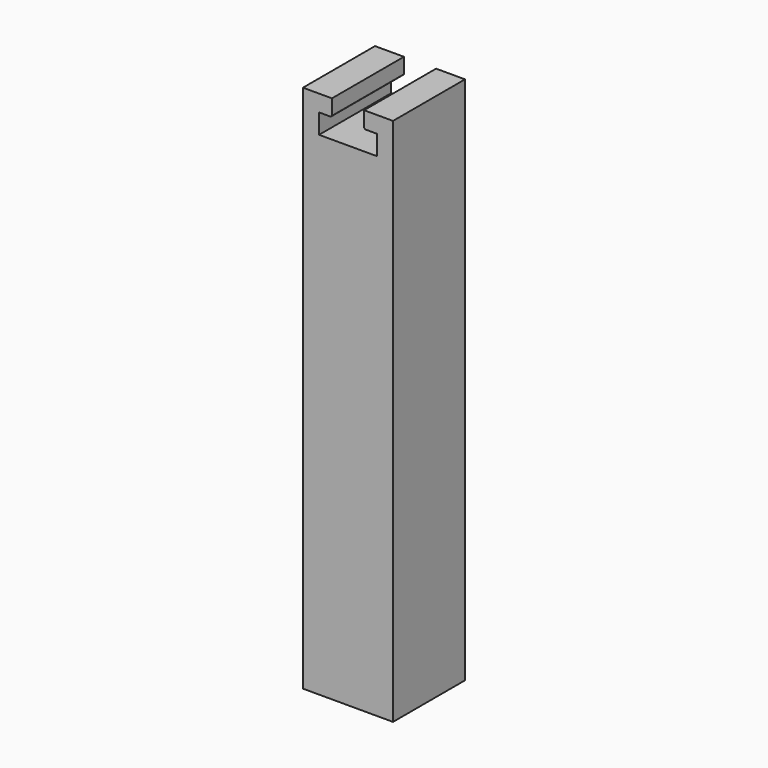
from build123d import *

# Parameters (mm, degrees)
F0_W     = 9.9568
F0_H     = 58.5216
F1_DEPTH = 9.9568
F3_DEPTH = 9.9578
F4_SIZE  = 0.127


with BuildPart() as f1:
    # F0 (on Front) → F1 (new body)
    with BuildSketch(Plane.XZ):
        with Locations((4.9784, -29.2608)):
            Rectangle(F0_W, F0_H)
    extrude(amount=-F1_DEPTH)

    # F2 (on face) → F3 (cut, through all)
    with BuildSketch(Plane.XZ):
        Polygon((6.7564, 1.562734), (3.2004, 1.562903), (3.2004, -1.8288), (1.778, -1.8288), (1.778, -4.0132), (8.1788, -4.0132), (8.1788, -1.8288), (6.7564, -1.8288), align=None)
    extrude(amount=-F3_DEPTH, mode=Mode.SUBTRACT)

    # F4
    f4_edges = [f1.edges().sort_by_distance(p)[0] for p in [
        (3.2004, 4.9784, -1.8288),
        (6.7564, 4.9784, -1.8288),
    ]]
    chamfer(f4_edges, length=F4_SIZE)


solid = f1.part
